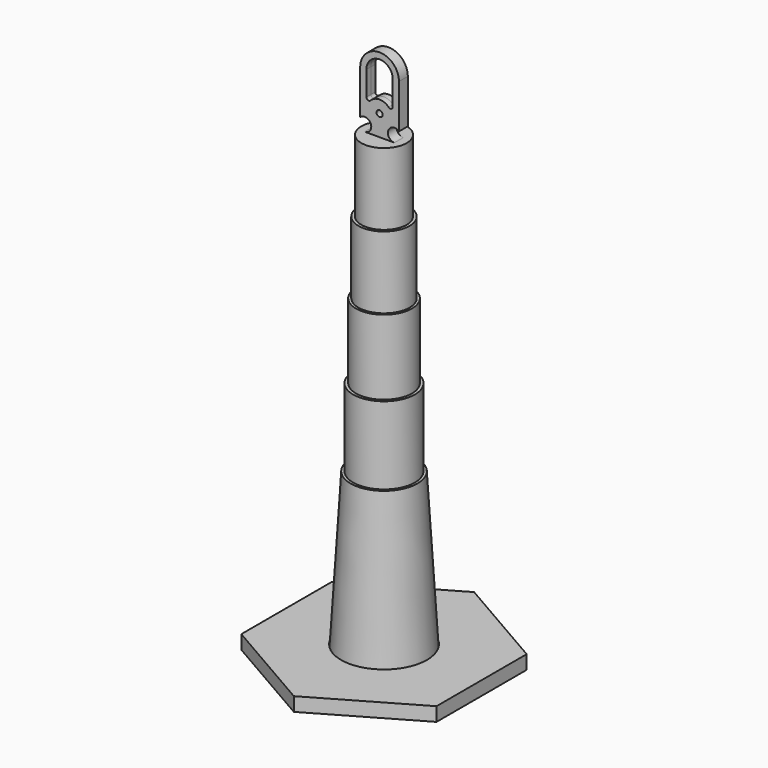
from build123d import *

# Parameters (mm, degrees)
F0_R          = 6.985
F2_DEPTH      = 12.7
F2_DEPTH_BACK = 12.7
F3_R          = 98.425
F4_DEPTH      = 31.75


with BuildPart() as f1:
    # F0 (on Front) → F1 (revolve)
    with BuildSketch(Plane.XZ):
        Polygon((133.35, -4.572), (133.35, 6.096), (99.06, 6.096), (76.708, 381), (70.866, 381), (70.866, 558.8), (64.262, 558.8), (64.262, 730.25), (58.674, 730.25), (58.674, 895.35), (52.0446, 895.35), (52.0446, 1060.45), (44.45, 1060.45), (34.13125, 1060.45), (0, 1060.45), (0, 1054.354), (45.9486, 1054.354), (45.9486, 889.254), (52.578, 889.254), (52.578, 724.154), (58.166, 724.154), (58.166, 552.704), (64.77, 552.704), (64.77, 374.904), (70.964622, 374.904), (93.316622, 0), (130.81, 0), (130.81, -4.572), align=None)
    revolve(axis=Axis((0, 0, 1057.402), (0, 0, -1)))

    # F0 (on Front) → F2 (join, two sides)
    with BuildSketch(Plane.XZ) as f2_sk:
        with BuildLine():
            Line((0, 1060.45), (34.13125, 1060.45))
            ThreePointArc((34.13125, 1060.45), (20.107777, 1081.079792), (44.45, 1086.529773))
            Line((44.45, 1086.529773), (44.45, 1187.45))
            ThreePointArc((44.45, 1187.45), (0, 1231.9), (-44.45, 1187.45))
            Line((-44.45, 1187.45), (-44.45, 1086.529773))
            ThreePointArc((-44.45, 1086.529773), (-20.107777, 1081.079792), (-34.13125, 1060.45))
            Line((-34.13125, 1060.45), (0, 1060.45))
        make_face()
        with Locations((0, 1108.075)):
            Circle(F0_R, mode=Mode.SUBTRACT)
        with BuildLine():
            ThreePointArc((-30.226, 1187.45), (0, 1217.676), (30.226, 1187.45))
            Line((30.226, 1187.45), (30.226, 1131.661981))
            ThreePointArc((30.226, 1131.661981), (26.738322, 1126.505148), (20.653744, 1127.82224))
            ThreePointArc((20.653744, 1127.82224), (0, 1136.65), (-20.653744, 1127.82224))
            ThreePointArc((-20.653744, 1127.82224), (-26.738322, 1126.505148), (-30.226, 1131.661981))
            Line((-30.226, 1131.661981), (-30.226, 1187.45))
        make_face(mode=Mode.SUBTRACT)
    extrude(amount=F2_DEPTH)
    extrude(f2_sk.sketch, amount=-F2_DEPTH_BACK)


with BuildPart() as f4:
    # F3 (on Top) → F4 (new body)
    with BuildSketch(Plane.XY):
        Polygon((223.8375, -129.232641), (223.8375, 129.232641), (0, 258.465282), (-223.8375, 129.232641), (-223.8375, -129.232641), (0, -258.465282), align=None)
        Circle(F3_R, mode=Mode.SUBTRACT)
    extrude(amount=F4_DEPTH)


solid = Compound([f1.part, f4.part])
